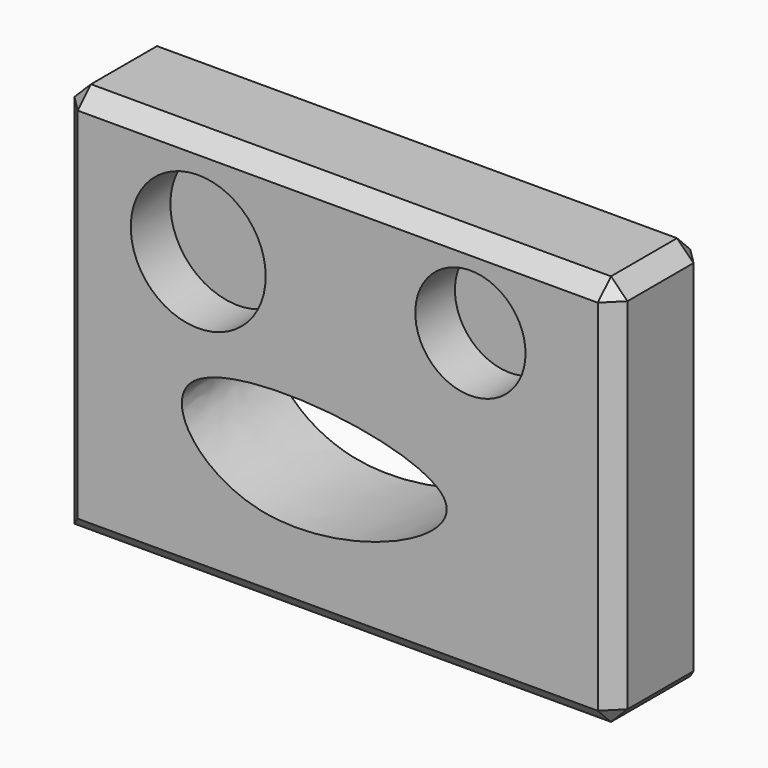
from build123d import *

# Parameters (mm, degrees)
F0_W     = 170.1207906008
F0_H     = 120.6709034741
F1_DEPTH = 35.56
F2_SIZE  = 5.08
F3_W     = 43.2106815279
F3_H     = 37.201420404
F4_DEPTH = 26.416
F5_R     = 20.753484157
F5_R_2   = 16.9591840917
F6_DEPTH = 15.24
F8_DEPTH = 45.72


with BuildPart() as f1:
    # F0 (on Front) → F1 (new body)
    with BuildSketch(Plane.XZ):
        with Locations((-14.1588523984, -16.8147515506)):
            Rectangle(F0_W, F0_H)
    extrude(amount=F1_DEPTH)

    # F2
    f2_edges = [f1.edges().sort_by_distance(p)[0] for p in [
        (70.901543, -17.78, 43.5207),
        (-99.219248, -17.78, 43.5207),
        (-14.158852, 0, 43.5207),
        (-14.158852, -35.56, 43.5207),
        (-99.219248, -35.56, -16.814752),
        (-14.158852, -35.56, -77.150203),
        (70.901543, -35.56, -16.814752),
        (70.901543, -17.78, -77.150203),
        (70.901543, 0, -16.814752),
    ]]
    chamfer(f2_edges, length=F2_SIZE)

    # F3 (on face) → F4 (join)
    with BuildSketch(Plane.XZ.offset(35.56)):
        with Locations((-56.4028490335, -7.9972422682)):
            Rectangle(F3_W, F3_H)
    extrude(amount=-F4_DEPTH)

    # F5 (on face) → F6 (cut)
    with BuildSketch(Plane.XZ.offset(35.56)):
        with Locations((-57.0828169584, 12.2954472899)):
            Circle(F5_R)
        with Locations((26.6415085644, 17.472056672)):
            Circle(F5_R_2)
    extrude(amount=-F6_DEPTH, mode=Mode.SUBTRACT)

    # F7 (on face) → F8 (cut)
    with BuildSketch(Plane.XZ.offset(35.56)):
        with BuildLine():
            add(Edge.make_bspline(
                [(-37.8358364105, -51.5432469547), (-56.4956631924, -47.5123333932), (-85.1624102545, -7.6424527107), (65.6454542447, -24.0307948131), (-13.3011555528, -56.8432520915), (-37.8358364105, -51.5432469547)],
                knots=[0, 0, 0, 0, 0.2624393573, 0.6549343168, 1, 1, 1, 1], degree=3))
        make_face()
    extrude(amount=-F8_DEPTH, mode=Mode.SUBTRACT)


solid = f1.part
